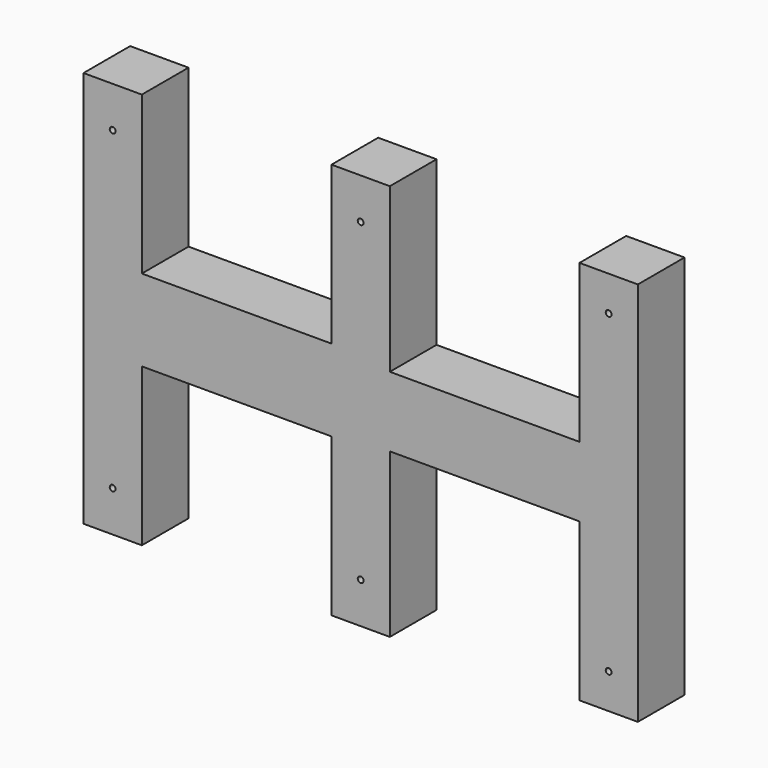
from build123d import *

# Parameters (mm, degrees)
F0_R     = 2.5
F1_DEPTH = 50


with BuildPart() as f1:
    # F0 (on Front) → F1 (new body)
    with BuildSketch(Plane.XZ):
        Polygon((0, 170), (0, 0), (0, -170), (50, -170), (50, -35), (212.5, -35), (212.5, -170), (262.5, -170), (262.5, -30), (425, -30), (425, -165), (475, -165), (475, 0), (475, 165), (425, 165), (425, 30), (262.5, 30), (262.5, 170), (212.5, 170), (212.5, 35), (50, 35), (50, 170), align=None)
        with Locations((25, -135)):
            Circle(F0_R, mode=Mode.SUBTRACT)
        with Locations((237.5, -135)):
            Circle(F0_R, mode=Mode.SUBTRACT)
        with Locations((450, -135)):
            Circle(F0_R, mode=Mode.SUBTRACT)
        with Locations((25, 135)):
            Circle(F0_R, mode=Mode.SUBTRACT)
        with Locations((237.5, 135)):
            Circle(F0_R, mode=Mode.SUBTRACT)
        with Locations((450, 135)):
            Circle(F0_R, mode=Mode.SUBTRACT)
    extrude(amount=F1_DEPTH)


solid = f1.part
